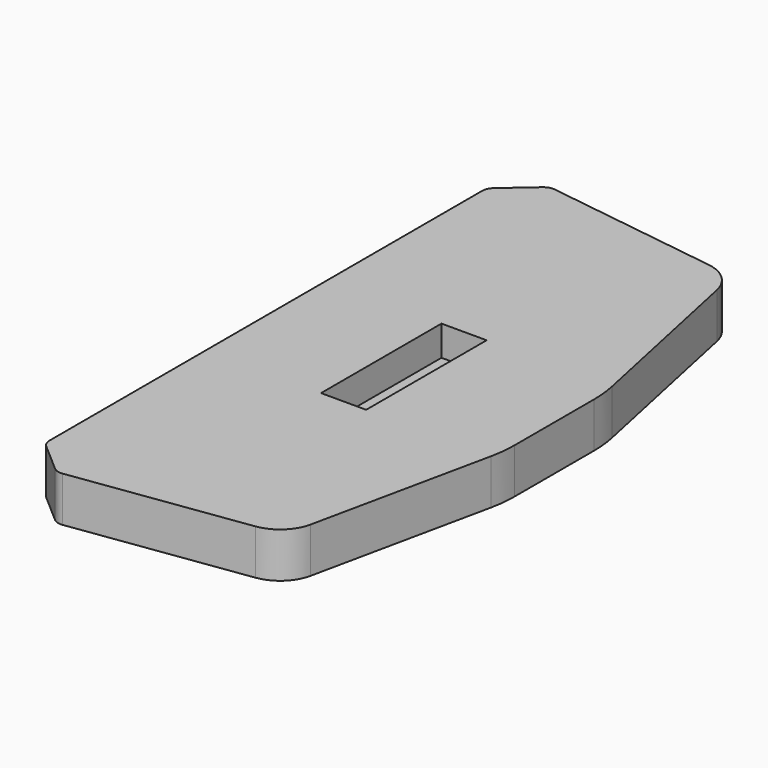
from build123d import *

# Parameters (mm, degrees)
PAD_DEPTH    = 18
SKETCH001_W  = 18
SKETCH001_H  = 60
POCKET_DEPTH = 12
CHAMFER_SIZE = 15
FILLET_R     = 5
FILLET001_R  = 15
FILLET002_R  = 50


with BuildPart() as part:
    # Sketch → Pad (new body)
    with BuildSketch(Plane.XY):
        Polygon((0, 125), (0, -125), (96.630989, -111.4194), (115, -25), (115, 25), (96.630989, 111.4194), align=None)
    extrude(amount=PAD_DEPTH)

    # Sketch001 → Pocket (cut)
    with BuildSketch(Plane.XY.offset(18)):
        with Locations((55, 0)):
            Rectangle(SKETCH001_W, SKETCH001_H)
    extrude(amount=-POCKET_DEPTH, mode=Mode.SUBTRACT)

    # Chamfer
    chamfer_edges = [part.edges().sort_by_distance(p)[0] for p in [
        (0, -125, 9),
        (0, 125, 9),
    ]]
    chamfer(chamfer_edges, length=CHAMFER_SIZE)

    # Fillet
    fillet_edges = [part.edges().sort_by_distance(p)[0] for p in [
        (14.854021, 122.912403, 9),
        (0, 110, 9),
        (0, -110, 9),
        (14.854021, -122.912403, 9),
    ]]
    fillet(fillet_edges, radius=FILLET_R)

    # Fillet001
    fillet001_edges = [part.edges().sort_by_distance(p)[0] for p in [
        (96.630989, -111.4194, 9),
        (96.630989, 111.4194, 9),
    ]]
    fillet(fillet001_edges, radius=FILLET001_R)

    # Fillet002
    fillet002_edges = [part.edges().sort_by_distance(p)[0] for p in [
        (115, -25, 9),
        (115, 25, 9),
    ]]
    fillet(fillet002_edges, radius=FILLET002_R)


solid = part.part
